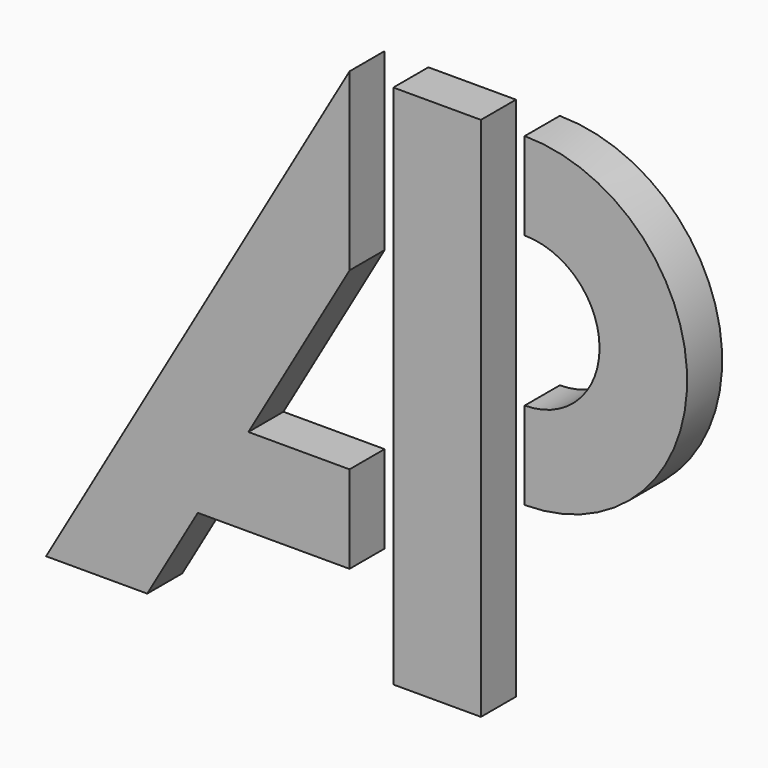
from build123d import *

# Parameters (mm, degrees)
F1_DEPTH = 6.35


with BuildPart() as f1:
    # F0 (on Front) → F1 (new body)
    with BuildSketch(Plane.XZ):
        Polygon((-12.7, 12.7), (-12.7, 38.1), (-56.694091, -38.1), (-42.029394, -38.1), (-34.697045, -25.4), (-27.364697, -12.7), align=None)
        Polygon((6.35, 38.1), (-6.35, 38.1), (-6.35, 12.7), (-6.35, -12.7), (-6.35, -25.4), (-6.35, -38.1), (6.35, -38.1), (6.35, -8.99419), (6.35, 3.70581), (6.35, 25.4), align=None)
        with BuildLine():
            ThreePointArc((12.7, -8.99419), (36.247095, 14.552905), (12.7, 38.1))
            Line((12.7, 38.1), (12.7, 25.4))
            ThreePointArc((12.7, 25.4), (23.547095, 14.552905), (12.7, 3.70581))
            Line((12.7, 3.70581), (12.7, -8.99419))
        make_face()
        Polygon((-12.7, -25.4), (-12.7, -12.7), (-27.364697, -12.7), (-34.697045, -25.4), align=None)
    extrude(amount=F1_DEPTH)


solid = f1.part
